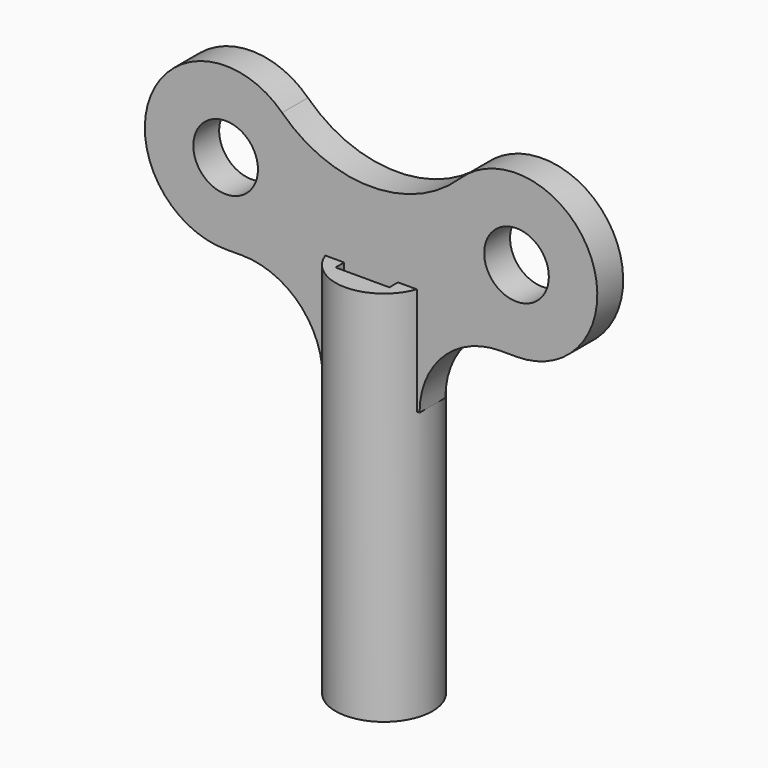
from build123d import *

# Parameters (mm, degrees)
SKETCH_R       = 4.5
SKETCH_W       = 5
SKETCH_H       = 5
PAD_DEPTH      = 10
PAD_DEPTH_BACK = 25
SKETCH001_R    = 3
PAD001_DEPTH   = 1.5


with BuildPart() as part:
    # Sketch → Pad (new body, two sides)
    with BuildSketch(Plane.XY) as pad_sk:
        Circle(SKETCH_R)
        Rectangle(SKETCH_W, SKETCH_H, mode=Mode.SUBTRACT)
    extrude(amount=PAD_DEPTH)
    extrude(pad_sk.sketch, amount=-PAD_DEPTH_BACK)

    # Sketch001 → Pad001 (join, symmetric)
    with BuildSketch(Plane.XZ):
        with BuildLine():
            ThreePointArc((-8.258824, 20.364706), (-20.445693, 17.829727), (-13.5, 7.5))
            Line((-12, 7.5), (-13.5, 7.5))
            ThreePointArc((-4.5, 0), (-6.696699, 5.303301), (-12, 7.5))
            Line((-4.5, 0), (4.5, 0))
            ThreePointArc((12, 7.5), (6.696699, 5.303301), (4.5, 0))
            Line((12, 7.5), (13.5, 7.5))
            ThreePointArc((13.5, 7.5), (20.445693, 17.829727), (8.258824, 20.364706))
            ThreePointArc((-8.258824, 20.364706), (0, 17), (8.258824, 20.364706))
        make_face()
        with Locations((13.5, 15)):
            Circle(SKETCH001_R, mode=Mode.SUBTRACT)
        with Locations((-13.5, 15)):
            Circle(SKETCH001_R, mode=Mode.SUBTRACT)
    extrude(amount=PAD001_DEPTH, both=True)


solid = part.part
